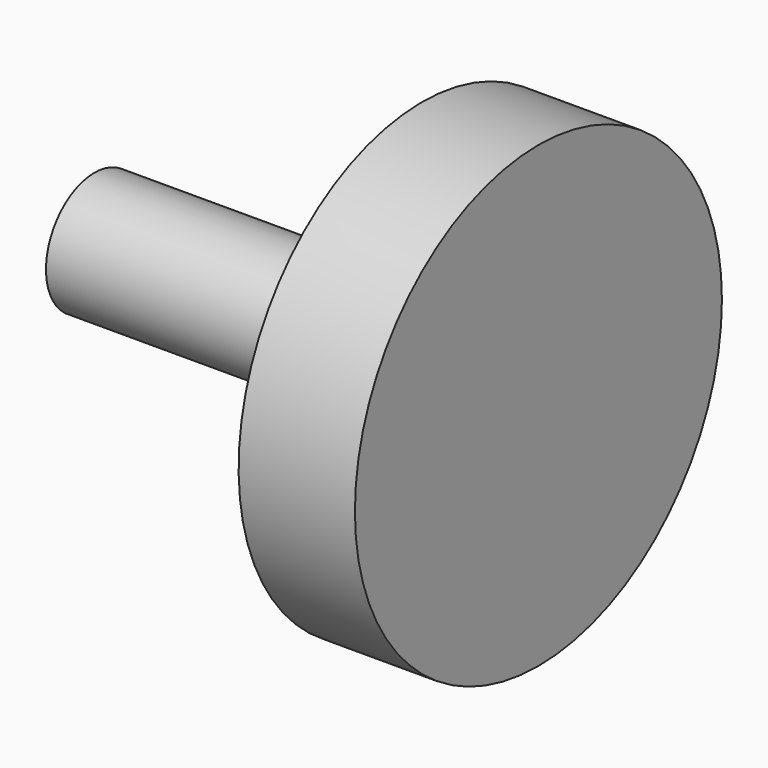
from build123d import *

# Parameters (mm, degrees)
F0_R     = 50.091372
F1_DEPTH = 25.4
F2_R     = 13.228716
F3_DEPTH = 96.953787
F4_R     = 11.471159
F5_DEPTH = 51.739275


with BuildPart() as f1:
    # F0 (on Right) → F1 (new body)
    with BuildSketch(Plane.YZ):
        Circle(F0_R)
    extrude(amount=F1_DEPTH)

    # F2 (on face) → F3 (join)
    with BuildSketch(Plane.YZ.offset(25.4)):
        Circle(F2_R)
    extrude(amount=-F3_DEPTH)

    # F4 (on Right) → F5 (join)
    with BuildSketch(Plane.YZ):
        with Locations((48.796393, -16.624697)):
            Circle(F4_R)
    extrude(amount=-F5_DEPTH)


solid = f1.part
